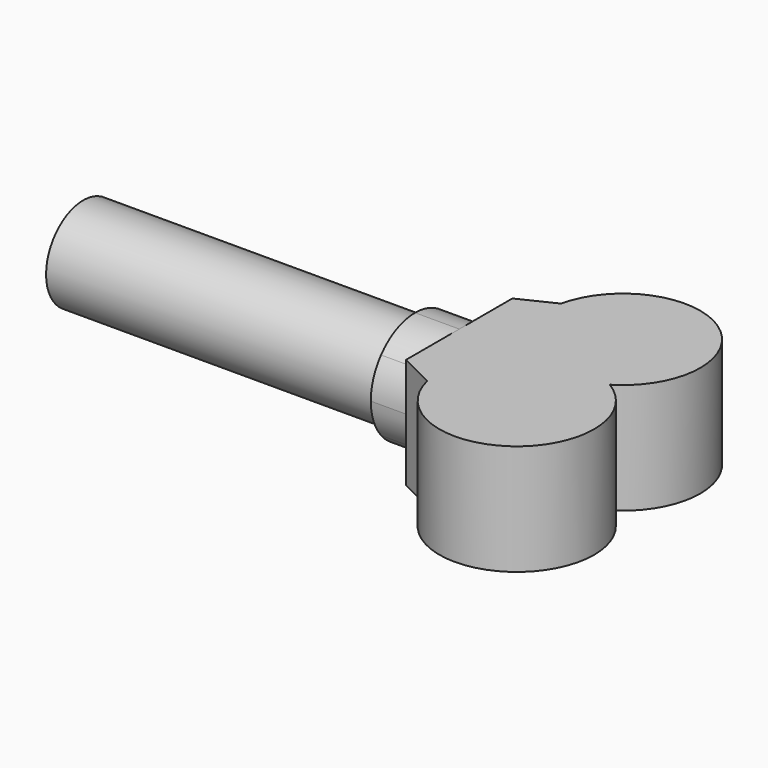
from build123d import *

# Parameters (mm, degrees)
F1_DEPTH = 2.5
F3_DEPTH = 2
F4_R     = 2.1
F5_DEPTH = 15


with BuildPart() as f1:
    # F0 (on Top) → F1 (new body, symmetric)
    with BuildSketch(Plane.XY):
        with BuildLine():
            ThreePointArc((8.1972243623, 3), (10, 2.5), (11.8027756377, 3))
            ThreePointArc((11.8027756377, 3), (10, 3.5), (8.1972243623, 3))
        make_face()
        with BuildLine():
            ThreePointArc((8.1972243623, 3), (6.7824000154, 4.6226654949), (6.584950352, 6.7664436716))
            Line((6.584950352, 6.7664436716), (5, 6))
            Line((5, 6), (5, 3))
            Line((5, 3), (5, 0))
            Line((5, 0), (6.5932639339, -0.8025891701))
            ThreePointArc((6.5932639339, -0.8025891701), (6.7751474224, 1.3602668315), (8.1972243623, 3))
        make_face()
        with BuildLine():
            ThreePointArc((11.8027756377, 3), (13.0462858313, 4.2765898242), (13.5, 6))
            ThreePointArc((13.5, 6), (10.385568562, 9.4786975844), (6.584950352, 6.7664436716))
            ThreePointArc((6.584950352, 6.7664436716), (6.7824000154, 4.6226654949), (8.1972243623, 3))
            ThreePointArc((8.1972243623, 3), (10, 3.5), (11.8027756377, 3))
        make_face()
        with BuildLine():
            ThreePointArc((13.5, 0), (13.0462858313, 1.7234101758), (11.8027756377, 3))
            ThreePointArc((11.8027756377, 3), (10, 2.5), (8.1972243623, 3))
            ThreePointArc((8.1972243623, 3), (6.7751474224, 1.3602668315), (6.5932639339, -0.8025891701))
            ThreePointArc((6.5932639339, -0.8025891701), (10.4039949063, -3.4766058327), (13.5, 0))
        make_face()
    extrude(amount=F1_DEPTH, both=True)

    # F2 (on face) → F3 (join)
    with BuildSketch(Plane(origin=(5, 0, 0), x_dir=(0, -1, 0), z_dir=(-1, 0, 0))):
        with BuildLine():
            ThreePointArc((-0.5, 0), (-0.6493210558, 0.8510631594), (-1.079446801, 1.6004609992))
            Line((-1.079446801, 1.6004609992), (-3, 0))
            Line((-3, 0), (-1.079446801, -1.6004609992))
            ThreePointArc((-1.079446801, -1.6004609992), (-0.6493210558, -0.8510631594), (-0.5, 0))
        make_face()
        with BuildLine():
            Line((-3, 0), (-1.079446801, 1.6004609992))
            ThreePointArc((-1.079446801, 1.6004609992), (-1.9396115094, 2.2639735531), (-3, 2.5))
            ThreePointArc((-3, 2.5), (-4.0603884906, 2.2639735531), (-4.920553199, 1.6004609992))
            Line((-4.920553199, 1.6004609992), (-3, 0))
        make_face()
        with BuildLine():
            Line((-1.079446801, -1.6004609992), (-3, 0))
            Line((-3, 0), (-4.920553199, -1.6004609992))
            ThreePointArc((-4.920553199, -1.6004609992), (-4.0603884906, -2.2639735531), (-3, -2.5))
            ThreePointArc((-3, -2.5), (-1.9396115094, -2.2639735531), (-1.079446801, -1.6004609992))
        make_face()
        with BuildLine():
            Line((-4.920553199, -1.6004609992), (-3, 0))
            Line((-3, 0), (-4.920553199, 1.6004609992))
            ThreePointArc((-4.920553199, 1.6004609992), (-5.5, 0), (-4.920553199, -1.6004609992))
        make_face()
    extrude(amount=F3_DEPTH)

    # F4 (on face) → F5 (join)
    with BuildSketch(Plane(origin=(3, 0, 0), x_dir=(0, -1, 0), z_dir=(-1, 0, 0))):
        with Locations((-3, 0)):
            Circle(F4_R)
    extrude(amount=F5_DEPTH)


solid = f1.part
